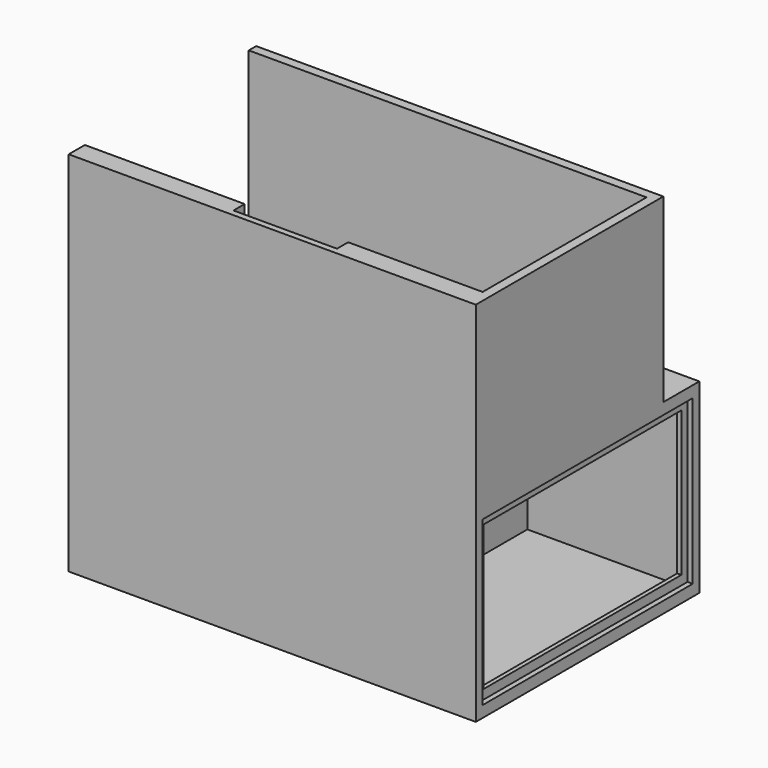
from build123d import *

# Parameters (mm, degrees)
F1_DEPTH  = 35
F0_W      = 1.8
F0_H      = 39.6
F2_DEPTH  = 36
F0_W_2    = 30
F0_H_2    = 6.9
F3_DEPTH  = 1.8
F4_W      = 47.8
F4_H      = 28
F5_DEPTH  = 18
F4_W_2    = 50.8
F4_H_2    = 31.6
F6_DEPTH  = 1
F7_W      = 43.3
F7_H      = 39.6
F7_W_2    = 30
F7_H_2    = 48.3
F8_DEPTH  = 1.2
F0_W_3    = 6
F9_DEPTH  = 2
F10_R     = 1.6
F11_DEPTH = 2
F12_R     = 5.5
F13_DEPTH = 5
F10_R_2   = 4.5
F14_DEPTH = 2


with BuildPart() as f1:
    # F0 (on Top) → F1 (new body)
    with BuildSketch(Plane.XY):
        Polygon((-38.45, 21.6), (-38.45, 19.8), (-36.65, 19.8), (6.65, 19.8), (8.45, 19.8), (8.45, 21.6), (6.65, 21.6), align=None)
        Polygon((8.45, 21.6), (8.45, 19.8), (32.45, 19.8), (38.45, 19.8), (38.45, 21.6), align=None)
        Polygon((-36.65, -19.8), (-38.45, -19.8), (-38.45, -23.7), (40.25, -23.7), (40.25, 21.6), (38.45, 21.6), (38.45, 19.8), (38.45, -19.8), (32.45, -19.8), (12.45, -19.8), (12.45, -22.5), (-7.55, -22.5), (-7.55, -19.8), align=None)
    extrude(amount=F1_DEPTH)

    # F0 (on Top) → F2 (join)
    with BuildSketch(Plane.XY):
        with Locations((-37.55, 0)):
            Rectangle(F0_W, F0_H)
        Polygon((-38.45, 21.6), (-38.45, 19.8), (-36.65, 19.8), (6.65, 19.8), (8.45, 19.8), (8.45, 21.6), (6.65, 21.6), align=None)
        Polygon((6.65, 30.3), (6.65, 21.6), (8.45, 21.6), (8.45, 28.5), (38.45, 28.5), (38.45, 21.6), (40.25, 21.6), (40.25, 30.3), align=None)
        Polygon((-36.65, -19.8), (-38.45, -19.8), (-38.45, -23.7), (40.25, -23.7), (40.25, 21.6), (38.45, 21.6), (38.45, 19.8), (38.45, -19.8), (32.45, -19.8), (12.45, -19.8), (12.45, -22.5), (-7.55, -22.5), (-7.55, -19.8), align=None)
        Polygon((8.45, -19.8), (6.65, -19.8), (-7.55, -19.8), (-7.55, -22.5), (12.45, -22.5), (12.45, -19.8), align=None)
        with Locations((7.55, 0)):
            Rectangle(F0_W, F0_H)
    extrude(amount=-F2_DEPTH)

    # F0 (on Top) → F3 (join)
    with BuildSketch(Plane.XY):
        with Locations((23.45, 25.05)):
            Rectangle(F0_W_2, F0_H_2)
        Polygon((8.45, 21.6), (8.45, 19.8), (32.45, 19.8), (38.45, 19.8), (38.45, 21.6), align=None)
    extrude(amount=-F3_DEPTH)

    # F4 (on face) → F5 (cut)
    with BuildSketch(Plane.YZ.offset(40.25)):
        with Locations((3.3, -18)):
            Rectangle(F4_W, F4_H)
    extrude(amount=-F5_DEPTH, mode=Mode.SUBTRACT)

    # F4 (on face) → F6 (cut)
    with BuildSketch(Plane.YZ.offset(40.25)):
        with Locations((3.3, -18)):
            Rectangle(F4_W_2, F4_H_2)
        with Locations((3.3, -18)):
            Rectangle(F4_W, F4_H, mode=Mode.SUBTRACT)
    extrude(amount=-F6_DEPTH, mode=Mode.SUBTRACT)

    # F7 (on face) → F8 (join)
    with BuildSketch(Plane(origin=(0, 0, -36), x_dir=(1, 0, 0), z_dir=(0, 0, -1))):
        with Locations((-15, 0)):
            Rectangle(F7_W, F7_H)
        with Locations((23.45, -4.35)):
            Rectangle(F7_W_2, F7_H_2)
    extrude(amount=-F8_DEPTH)

    # F0 (on Top) → F9 (join)
    with BuildSketch(Plane.XY):
        with Locations((35.45, 0)):
            Rectangle(F0_W_3, F0_H)
    extrude(amount=-F9_DEPTH)

    # F10 (on face) → F11 (cut)
    with BuildSketch(Plane(origin=(0, 21.6, 0), x_dir=(-1, 0, 0), z_dir=(0, 1, 0))):
        with Locations((-35.25, 12.1)):
            Circle(F10_R)
    extrude(amount=-F11_DEPTH, mode=Mode.SUBTRACT)

    # F12 (on face) → F13 (cut)
    with BuildSketch(Plane(origin=(-38.45, 0, 0), x_dir=(0, -1, 0), z_dir=(-1, 0, 0))):
        with Locations((-3, -9)):
            Circle(F12_R)
        with Locations((16.8, -9)):
            Circle(F12_R)
        with Locations((6.9, -28.8)):
            Circle(F12_R)
    extrude(amount=-F13_DEPTH, mode=Mode.SUBTRACT)

    # F10 (on face) → F14 (cut)
    with BuildSketch(Plane(origin=(0, 21.6, 0), x_dir=(-1, 0, 0), z_dir=(0, 1, 0))):
        with Locations((-1.65, -14)):
            Circle(F10_R)
        with Locations((-1.65, -24)):
            Circle(F10_R)
        with Locations((31.45, -29)):
            Circle(F10_R_2)
    extrude(amount=-F14_DEPTH, mode=Mode.SUBTRACT)


solid = f1.part
